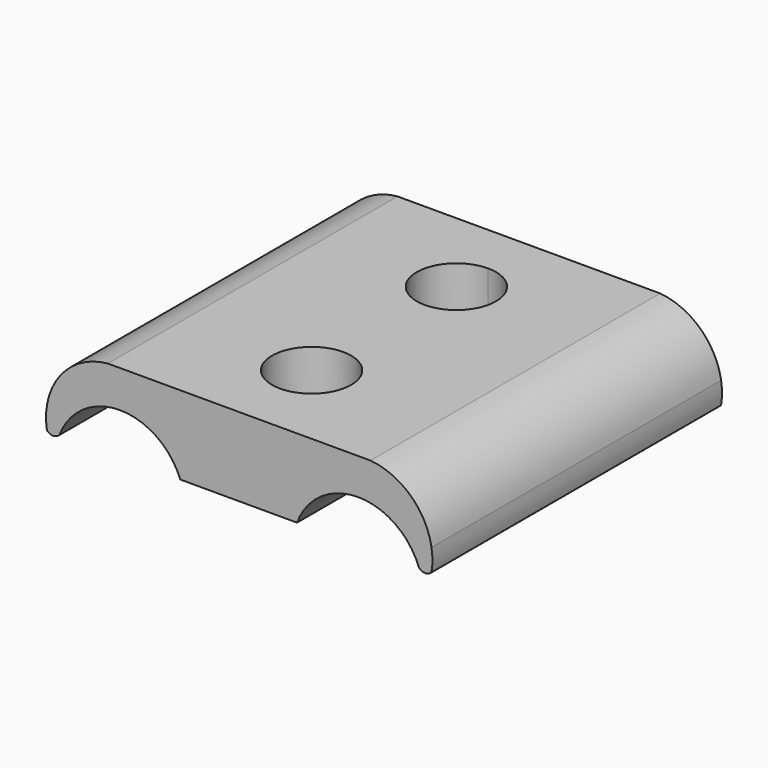
from build123d import *

# Parameters (mm, degrees)
F1_DEPTH = 64
F2_R     = 7
F3_DEPTH = 14


with BuildPart() as f1:
    # F0 (on Front) → F1 (new body)
    with BuildSketch(Plane.XZ):
        with BuildLine():
            Line((-44.4183332533, 0), (-34, 0))
            Line((-34, 0), (-23.7819293264, 0))
            ThreePointArc((-23.7819293264, 0), (-13, 7.5), (-2.2180706736, 0))
            ThreePointArc((-2.2180706736, 0), (-1.1090353368, -0.4900293956), (0, 0))
            ThreePointArc((0, 0), (0.1576676396, 1.9388564323), (0, 3.8777128647))
            ThreePointArc((0, 3.8777128647), (-3.676919168, 10.7323783319), (-10.7847960107, 13.8921663032))
            Line((-10.7847960107, 13.8921663032), (-12.8998687101, 13.8921663032))
            Line((-12.8998687101, 13.8921663032), (-13, 13.8921663032))
            Line((-13, 13.8921663032), (-55.1001312899, 13.8921663032))
            Line((-55.1001312899, 13.8921663032), (-57.2152039893, 13.8921663032))
            ThreePointArc((-57.2152039893, 13.8921663032), (-65.6365770881, 9.2975435208), (-68, 0))
            ThreePointArc((-68, 0), (-66.8909646632, -0.4900293956), (-65.7819293264, 0))
            ThreePointArc((-65.7819293264, 0), (-55.1001312899, 7.3366019369), (-44.4183332533, 0))
        make_face()
    extrude(amount=F1_DEPTH)

    # F2 (on Top) → F3 (cut)
    with BuildSketch(Plane.XY):
        with Locations((-34, -48)):
            Circle(F2_R)
        with BuildLine():
            ThreePointArc((-27, -16), (-29.0502525317, -11.0502525317), (-34, -9))
            Line((-34, -9), (-34, -23))
            ThreePointArc((-34, -23), (-29.0502525317, -20.9497474683), (-27, -16))
        make_face()
        with BuildLine():
            Line((-34, -23), (-34, -9))
            ThreePointArc((-34, -9), (-41, -16), (-34, -23))
        make_face()
    extrude(amount=F3_DEPTH, mode=Mode.SUBTRACT)


solid = f1.part
